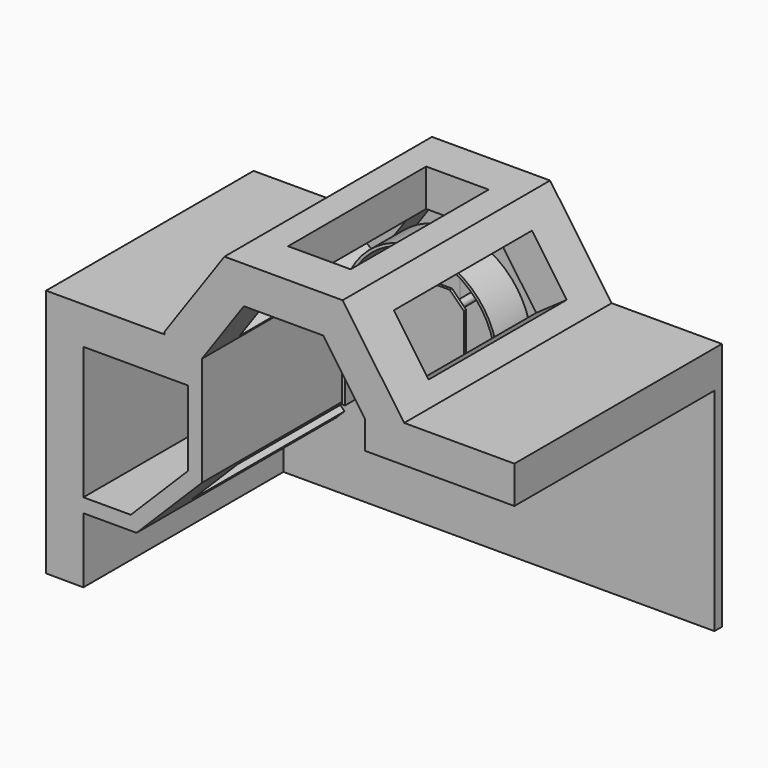
from build123d import *

# Parameters (mm, degrees)
F1_DEPTH  = 10
F3_DEPTH  = 278
F4_W      = 67
F4_H      = 185
F5_DEPTH  = 50
F6_W      = 185
F6_H      = 67
F7_DEPTH  = 50
F8_W      = 185
F8_H      = 65
F9_DEPTH  = 50
F11_DEPTH = 278
F13_DEPTH = 268
F14_W     = 205
F14_H     = 70
F15_DEPTH = 25
F18_DEPTH = 3
F20_DEPTH = 42
F21_W     = 50
F21_H     = 100
F22_DEPTH = 0.5
F23_R     = 4
F24_DEPTH = 73
F26_DEPTH = 3


with BuildPart() as f1:
    # F0 (on Front) → F1 (new body)
    with BuildSketch(Plane.XZ):
        Polygon((-214.5, -230.8110243468), (-214.5, -300.8110243468), (247.5, -300.8110243468), (247.5, -73.8110243468), (87.5, -73.8110243468), (87.5, -43.8110243468), (42.5, 20.4556359566), (-42.5, 20.4556359566), (-87.5, -43.8110243468), (-87.5, -160.8110243468), (-157.5, -230.8110243468), align=None)
    extrude(amount=F1_DEPTH)

    # F2 (on Front) → F3 (join)
    with BuildSketch(Plane.XZ):
        Polygon((87.5, -43.8110243468), (87.5, -73.8110243468), (247.5, -73.8110243468), (247.5, -33.8110243468), (129.3289081684, -33.8110243468), (63.3226820221, 60.4556359566), (-63.3226820221, 60.4556359566), (-127.5, -31.1990727916), (-127.5, -179.5978209112), (-163.7132034356, -215.8110243468), (-214.5, -215.8110243468), (-214.5, -230.8110243468), (-157.5, -230.8110243468), (-87.5, -160.8110243468), (-87.5, -43.8110243468), (-42.5, 20.4556359566), (42.5, 20.4556359566), align=None)
    extrude(amount=F3_DEPTH)

    # F4 (on face) → F5 (cut)
    with BuildSketch(Plane(origin=(0, 0, 20.4556359566), x_dir=(1, 0, 0), z_dir=(0, 0, -1))):
        with Locations((0, 137.5)):
            Rectangle(F4_W, F4_H)
    extrude(amount=-F5_DEPTH, mode=Mode.SUBTRACT)

    # F6 (on face) → F7 (cut)
    with BuildSketch(Plane(origin=(-38.1289331266, 0, 26.6981663992), x_dir=(0, 1, 0), z_dir=(0.8191520443, 0, -0.5735764364))):
        with Locations((-137.5, -49.1207225338)):
            Rectangle(F6_W, F6_H)
    extrude(amount=-F7_DEPTH, mode=Mode.SUBTRACT)

    # F8 (on face) → F9 (cut)
    with BuildSketch(Plane(origin=(38.1289331266, 0, 26.6981663992), x_dir=(0, -1, 0), z_dir=(-0.8191520443, 0, -0.5735764364))):
        with Locations((137.5, -48.1207225338)):
            Rectangle(F8_W, F8_H)
    extrude(amount=-F9_DEPTH, mode=Mode.SUBTRACT)

    # F10 (on face) → F11 (join)
    with BuildSketch(Plane.XZ.offset(278)):
        Polygon((-127.5, -179.5978209112), (-127.5, -33.8110243468), (-254.5, -33.8110243468), (-254.5, -300.6454706192), (-214.5, -300.8110243468), (-214.5, -230.8110243468), (-214.5, -215.8110243468), (-163.7132034356, -215.8110243468), align=None)
    extrude(amount=-F11_DEPTH)

    # F12 (on face) → F13 (cut)
    with BuildSketch(Plane.XZ.offset(278)):
        Polygon((-214.5, -73.8110243468), (-214.5, -215.8110243468), (-163.7132034356, -215.8110243468), (-102.5, -154.5978209112), (-102.5, -73.8110243468), align=None)
    extrude(amount=-F13_DEPTH, mode=Mode.SUBTRACT)

    # F14 (on face) → F15 (cut)
    with BuildSketch(Plane(origin=(36.6555121734, 0, -36.6555121734), x_dir=(0, 1, 0), z_dir=(0.7071067812, 0, -0.7071067812))):
        with Locations((-112.5, -227.582409159)):
            Rectangle(F14_W, F14_H)
    extrude(amount=-F15_DEPTH, mode=Mode.SUBTRACT)

    # F21 (on face) → F22 (join)
    with BuildSketch(Plane.XZ.offset(10)):
        with Locations((0, -90)):
            Rectangle(F21_W, F21_H)
    extrude(amount=F22_DEPTH)

    # F23 (on face) → F24 (join)
    with BuildSketch(Plane.XZ.offset(10.5)):
        with Locations((0, -60)):
            Circle(F23_R)
        with Locations((0, -120)):
            Circle(F23_R)
    extrude(amount=F24_DEPTH)

    # F25 (on face) → F26 (join)
    with BuildSketch(Plane.XZ.offset(83.5)):
        Polygon((25, -20), (-25, -20), (-40, -35), (-40, -155), (-25, -170), (25, -170), (40, -155), (40, -35), align=None)
    extrude(amount=F26_DEPTH)


with BuildPart() as f18:
    # F17 (on offset) → F18 (new body)
    with BuildSketch(Plane.XZ.offset(50)):
        with BuildLine():
            ThreePointArc((-47.5, -68), (0, -20.5), (47.5, -68))
            Line((47.5, -68), (47.5, -73))
            ThreePointArc((47.5, -73), (50.4289321881, -80.0710678119), (57.5, -83))
            Line((57.5, -83), (83.5, -83))
            Line((83.5, -83), (83.5, -68))
            ThreePointArc((83.5, -68), (0, 15.5), (-83.5, -68))
            Line((-83.5, -68), (-83.5, -160))
            Line((-83.5, -160), (-57.5, -160))
            ThreePointArc((-57.5, -160), (-50.4289321881, -157.0710678119), (-47.5, -150))
            Line((-47.5, -150), (-47.5, -68))
        make_face()
    extrude(amount=F18_DEPTH)

    # F19 (on face) → F20 (join)
    with BuildSketch(Plane.XZ.offset(53)):
        with BuildLine():
            Line((-83.5, -68), (-83.5, -160))
            Line((-83.5, -160), (-80.5, -160))
            Line((-80.5, -160), (-80.5, -68))
            ThreePointArc((-80.5, -68), (0, 12.5), (80.5, -68))
            Line((80.5, -68), (80.5, -83))
            Line((80.5, -83), (83.5, -83))
            Line((83.5, -83), (83.5, -68))
            ThreePointArc((83.5, -68), (0, 15.5), (-83.5, -68))
        make_face()
    extrude(amount=F20_DEPTH)


solid = Compound([f1.part, f18.part])
